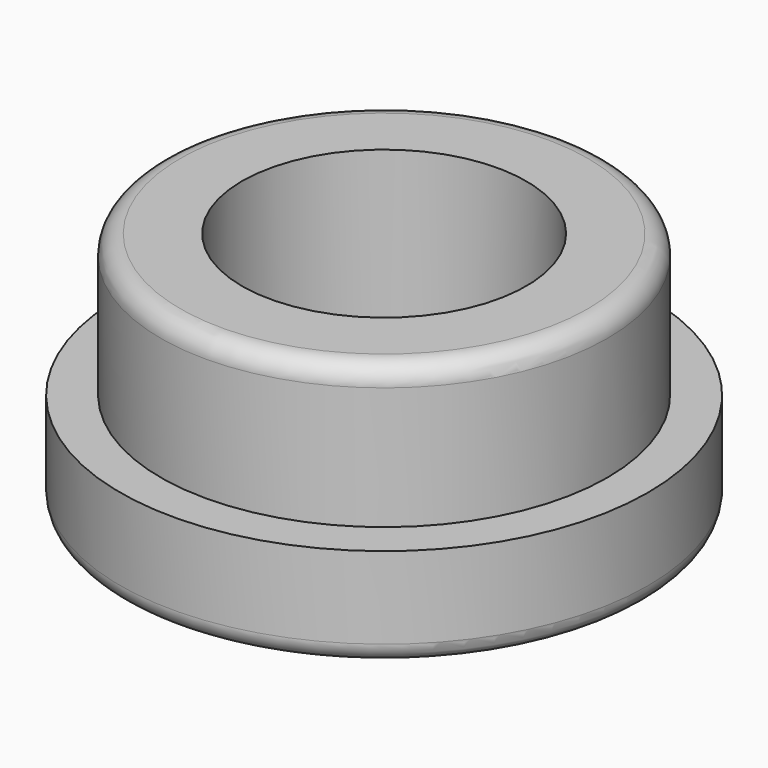
from build123d import *

# Parameters (mm, degrees)
F0_R           = 13
F1_DEPTH       = 5
F2_R           = 11
F3_DEPTH       = 7
F5_D           = 14
F5_CBORE_D     = 14
F5_CBORE_DEPTH = 14
F6_R           = 0.965685
F7_R           = 0.965685


with BuildPart() as f1:
    # F0 (on Top) → F1 (new body)
    with BuildSketch(Plane.XY):
        Circle(F0_R)
    extrude(amount=F1_DEPTH)

    # F2 (on face) → F3 (join)
    with BuildSketch(Plane.XY.offset(5)):
        Circle(F2_R)
    extrude(amount=F3_DEPTH)

    # F5 (through all)
    with Locations(Plane.XY.offset(12)):
        with Locations((0, 0)):
            CounterBoreHole(F5_D / 2, F5_CBORE_D / 2, F5_CBORE_DEPTH)

    # F6
    f6_edges = [f1.edges().sort_by_distance(p)[0] for p in [
        (-11, 0, 12),
    ]]
    fillet(f6_edges, radius=F6_R)

    # F7
    f7_edges = [f1.edges().sort_by_distance(p)[0] for p in [
        (-13, 0, 0),
    ]]
    fillet(f7_edges, radius=F7_R)


solid = f1.part
